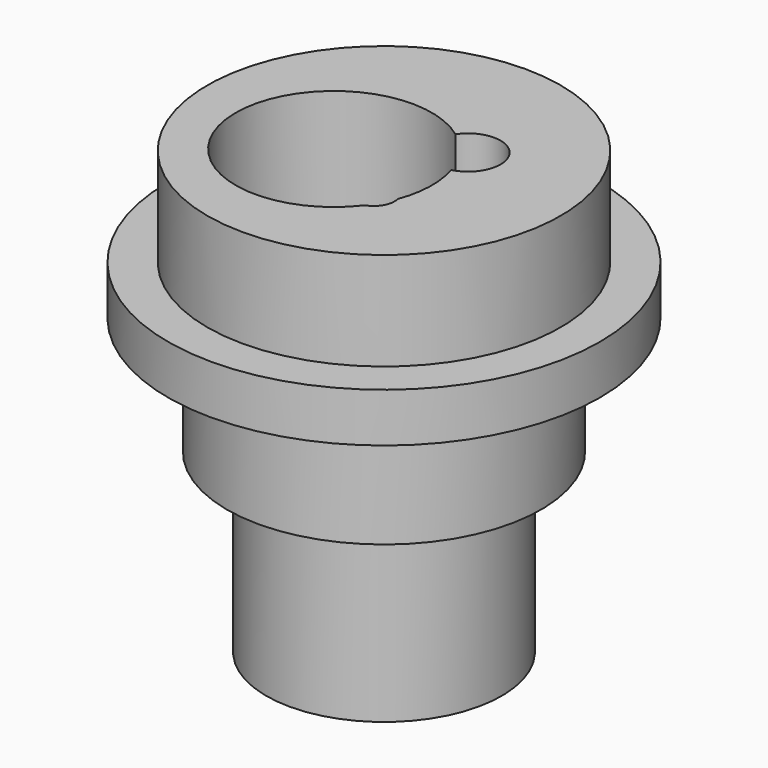
from build123d import *

# Parameters (mm, degrees)
F4_D     = 4.2
F5_D     = 6.8
F6_D     = 6.6
F8_D     = 20
F8_DEPTH = 20
F8_TIP   = 6.0086061903


with BuildPart() as f2:
    # F1 (on Right) → F2 (revolve)
    with BuildSketch(Plane.YZ):
        Polygon((0, 0), (-16, 0), (-16, -12), (-12, -12), (-12, -30), (0, -30), align=None)
        Polygon((-22, 5), (-22, 0), (-16, 0), (0, 0), (0, 15), (-18, 15), (-18, 5), align=None)
    revolve(axis=Axis((0, 0, -7.8081190586), (0, 0, -1)))

    # F4 (through all)
    with Locations(Plane(origin=(0, 0, -30), x_dir=(1, 0, 0), z_dir=(0, 0, -1))):
        with Locations((4.0257674055, 6.3279694055)):
            Hole(F4_D / 2)

    # F5 (through all)
    with Locations(Plane(origin=(0, 0, -30), x_dir=(1, 0, 0), z_dir=(0, 0, -1))):
        with Locations((-3.2813517626, 2.2875162535)):
            Hole(F5_D / 2)

    # F6 (through all)
    with Locations(Plane(origin=(0, 0, -30), x_dir=(1, 0, 0), z_dir=(0, 0, -1))):
        with Locations((5.4357488604, -3.9169674911)):
            Hole(F6_D / 2)

    # F8
    with Locations(Plane.XY.offset(15)):
        with Locations((-3.2813517626, -2.2875162535)):
            Hole(F8_D / 2, depth=F8_DEPTH)
            with Locations((0, 0, -(F8_DEPTH + F8_TIP / 2))):  # 118° drill point
                Cone(0, F8_D / 2, F8_TIP, mode=Mode.SUBTRACT)


solid = f2.part
